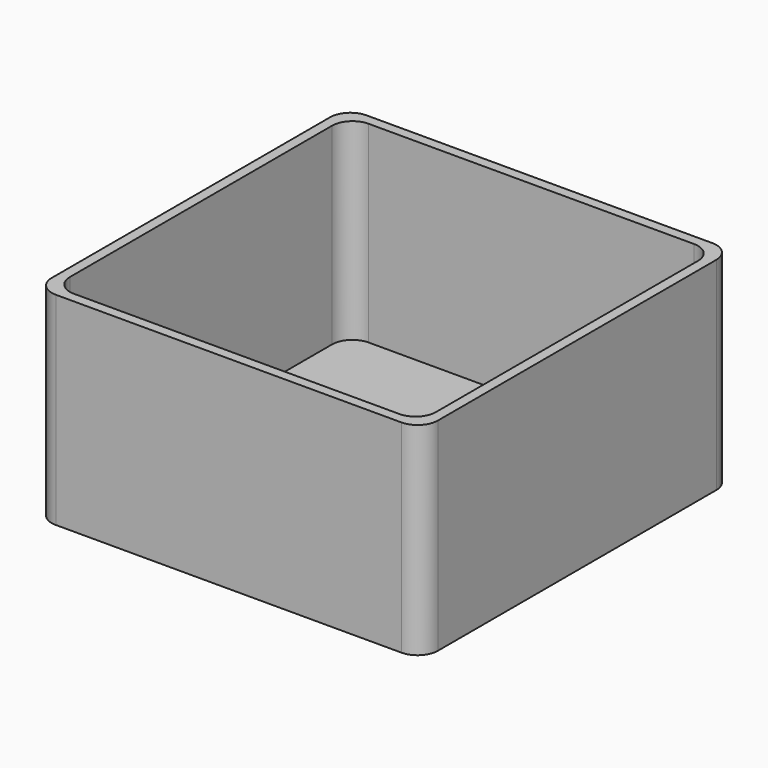
from build123d import *

# Parameters (mm, degrees)
F0_W     = 96.7861413956
F0_H     = 97.374163568
F1_DEPTH = 50.8
F2_T     = -2.54
F3_R     = 5.08
F4_R     = 5.08


with BuildPart() as f1:
    # F0 (on Top) → F1 (new body)
    with BuildSketch(Plane.XY):
        Rectangle(F0_W, F0_H)
    extrude(amount=F1_DEPTH)

    # F2
    f2_openings = [f1.faces().sort_by_distance(p)[0] for p in [
        (0, 0, 50.8),
    ]]
    offset(amount=F2_T, openings=f2_openings)

    # F3
    f3_edges = [f1.edges().sort_by_distance(p)[0] for p in [
        (-48.393071, -48.687082, 25.4),
        (-48.393071, 48.687082, 25.4),
        (48.393071, 48.687082, 25.4),
        (48.393071, -48.687082, 25.4),
    ]]
    fillet(f3_edges, radius=F3_R)

    # F4
    f4_edges = [f1.edges().sort_by_distance(p)[0] for p in [
        (-45.853071, -46.147082, 26.67),
        (-45.853071, 46.147082, 26.67),
        (45.853071, -46.147082, 26.67),
        (45.853071, 46.147082, 26.67),
    ]]
    fillet(f4_edges, radius=F4_R)


solid = f1.part
